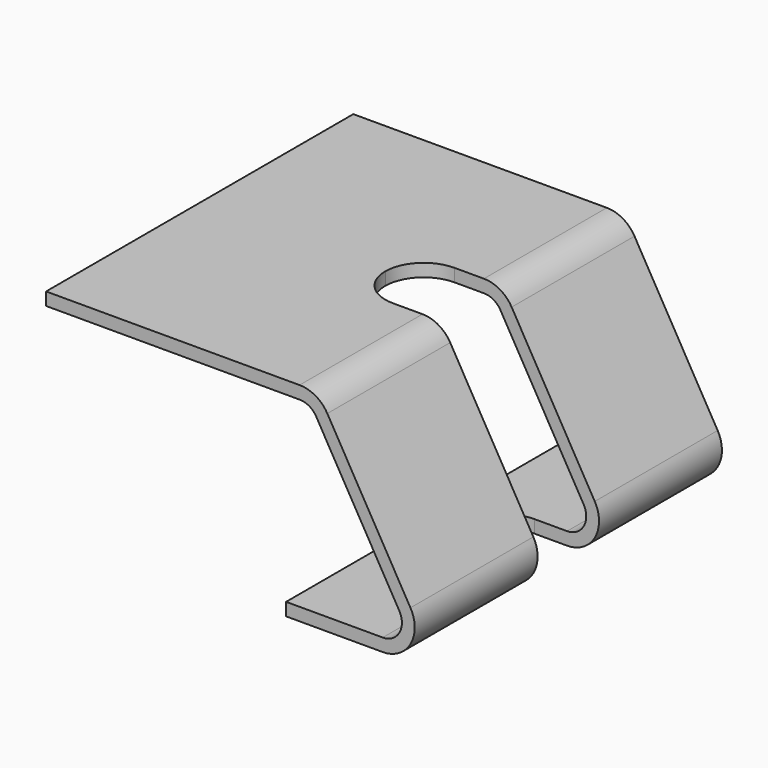
from build123d import *

# Parameters (mm, degrees)
PAD_DEPTH       = 60
POCKET_DEPTH    = 61
POCKET001_DEPTH = 4.001


with BuildPart() as part:
    # Sketch001 → Pad (new body)
    with BuildSketch(Plane.XZ.offset(50)):
        with BuildLine():
            Line((0, 65), (0, 61))
            Line((0, 61), (79.226497, 61))
            ThreePointArc((79.226497, 61), (82.226497, 60.196152), (84.42265, 58))
            Line((84.42265, 58), (110.403412, 13))
            ThreePointArc((110.403412, 13), (110.403412, 7), (105.207259, 4))
            Line((105.207259, 4), (75, 4))
            Line((75, 4), (75, 0))
            Line((75, 0), (105.207259, 0))
            ThreePointArc((105.207259, 0), (113.867513, 5), (113.867513, 15))
            Line((113.867513, 15), (87.886751, 60))
            ThreePointArc((87.886751, 60), (84.226497, 63.660254), (79.226497, 65))
            Line((79.226497, 65), (0, 65))
        make_face()
    extrude(amount=-PAD_DEPTH)

    # Sketch002 (on Face12 of Pad) → Pocket (cut)
    with BuildSketch(Plane(origin=(0, -50, 65), x_dir=(-1, 0, 0), z_dir=(0, 0, 1))):
        with BuildLine():
            ThreePointArc((-70, -12), (-61.514719, -8.485281), (-58, 0))
            Line((-125.207259, 0), (-58, 0))
            Line((-125.207259, -12), (-125.207259, 0))
            Line((-70, -12), (-125.207259, -12))
        make_face()
    extrude(amount=-POCKET_DEPTH, mode=Mode.SUBTRACT)

    # Sketch003 (on Face17 of Pocket) → Pocket001 (cut, through all)
    with BuildSketch(Plane(origin=(0, -50, 4), x_dir=(-1, 0, 0), z_dir=(0, 0, 1))):
        with BuildLine():
            Line((-113.207259, 0), (-83, 0))
            ThreePointArc((-95, -12), (-86.514719, -8.485281), (-83, 0))
            Line((-95, -12), (-113.207259, -12))
            Line((-113.207259, -12), (-113.207259, 0))
        make_face()
    extrude(amount=-POCKET001_DEPTH, mode=Mode.SUBTRACT)

    # Mirrored: part across face of Pocket001


with BuildPart() as part_1:
    add(part.part)
    add(part.part.mirror(Plane(origin=(29, -50, 63), x_dir=(1, 0, 0), z_dir=(0, -1, 0))))


solid = part_1.part
